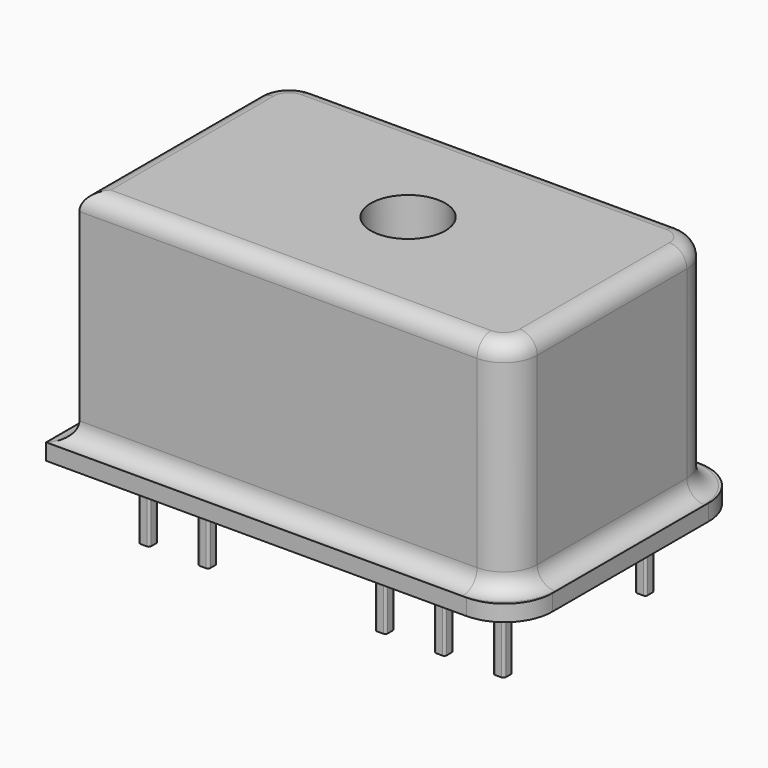
from build123d import *

# Parameters (mm, degrees)
PAD002_DEPTH = 3.3
PAD_DEPTH    = 0.7
PAD001_DEPTH = 9.42
FILLET_R     = 0.75
SKETCH002_R  = 1.6
POCKET_DEPTH = 2.5


with BuildPart() as body001:
    # Sketch003 (on Face1 of ReferencePocket) → Pad002 (new body)
    with BuildSketch(Plane(origin=(0, 0, 0), x_dir=(1, 0, 0), z_dir=(0, 0, -1))):
        with BuildLine():
            Line((-7.755, 3.575), (-7.485, 3.575))
            ThreePointArc((-7.485, 3.575), (-7.414289, 3.604289), (-7.385, 3.675))
            Line((-7.385, 3.675), (-7.385, 3.945))
            ThreePointArc((-7.385, 3.945), (-7.414289, 4.015711), (-7.485, 4.045))
            Line((-7.485, 4.045), (-7.755, 4.045))
            ThreePointArc((-7.755, 4.045), (-7.825711, 4.015711), (-7.855, 3.945))
            Line((-7.855, 3.945), (-7.855, 3.675))
            ThreePointArc((-7.855, 3.675), (-7.825711, 3.604289), (-7.755, 3.575))
        make_face()
    extrude(amount=PAD002_DEPTH)


with BuildPart() as fusion:
    # Clone base: copy of Body001
    add(body001.part)


with BuildPart() as fusion_1:
    # Clone placement: moved
    add(fusion.part.moved(Location((0, 7.62, 0))))

    # Fusion: union Body001
    add(body001.part)


with BuildPart() as fusion001:
    # Clone001 base: copy of Fusion
    add(fusion_1.part)


with BuildPart() as fusion001_1:
    # Clone001 placement: moved
    add(fusion001.part.moved(Location((2.54, 0, 0))))


with BuildPart() as fusion002:
    # Clone002 base: copy of Fusion
    add(fusion_1.part)


with BuildPart() as fusion002_1:
    # Clone002 placement: moved
    add(fusion002.part.moved(Location((10.16, 0, 0))))


with BuildPart() as fusion003:
    # Clone003 base: copy of Fusion
    add(fusion_1.part)


with BuildPart() as fusion003_1:
    # Clone003 placement: moved
    add(fusion003.part.moved(Location((12.7, 0, 0))))


with BuildPart() as fusion004:
    # Clone004 base: copy of Fusion
    add(fusion_1.part)


with BuildPart() as fusion004_1:
    # Clone004 placement: moved
    add(fusion004.part.moved(Location((15.24, 0, 0))))


with BuildPart() as fusion005:
    # Fusion001 base: copy of Fusion
    add(fusion_1.part)

    # Fusion001: union Fusion001, Fusion002, Fusion003, Fusion004
    add(fusion001_1.part)
    add(fusion002_1.part)
    add(fusion003_1.part)
    add(fusion004_1.part)


with BuildPart() as fusion006:
    # Sketch → Pad (new body)
    with BuildSketch(Plane.XY):
        with BuildLine():
            Line((-10.06, -6.25), (8.006793, -6.25))
            ThreePointArc((8.006793, -6.25), (9.45863, -5.64863), (10.06, -4.196793))
            Line((10.06, -4.196793), (10.06, 4.196793))
            ThreePointArc((10.06, 4.196793), (9.45863, 5.64863), (8.006793, 6.25))
            Line((8.006793, 6.25), (-8.006793, 6.25))
            ThreePointArc((-8.006793, 6.25), (-9.45863, 5.64863), (-10.06, 4.196793))
            Line((-10.06, 4.196793), (-10.06, -6.25))
        make_face()
    extrude(amount=PAD_DEPTH)

    # Sketch001 (on Face9 of Pad) → Pad001 (join)
    with BuildSketch(Plane.XY.offset(0.7)):
        with BuildLine():
            Line((-9.265, -5.455), (7.830229, -5.455))
            ThreePointArc((7.830229, -5.455), (8.844765, -5.034765), (9.265, -4.020229))
            Line((9.265, -4.020229), (9.265, 4.020228))
            ThreePointArc((9.265, 4.020228), (8.844765, 5.034765), (7.830229, 5.455))
            Line((7.830229, 5.455), (-7.830229, 5.455))
            ThreePointArc((-7.830229, 5.455), (-8.844765, 5.034765), (-9.265, 4.020228))
            Line((-9.265, 4.020228), (-9.265, -5.455))
        make_face()
    extrude(amount=PAD001_DEPTH)

    # Fillet
    fillet_edges = [fusion006.edges().sort_by_distance(p)[0] for p in [
        (-0.717386, -5.455, 0.7),
        (8.844765, -5.034765, 0.7),
        (9.265, 0, 0.7),
        (8.844765, 5.034765, 0.7),
        (0, 5.455, 0.7),
        (-8.844765, 5.034765, 0.7),
        (-9.265, -0.717386, 0.7),
        (-9.265, -0.717386, 10.12),
        (-8.844765, 5.034765, 10.12),
        (0, 5.455, 10.12),
        (8.844765, 5.034765, 10.12),
        (9.265, 0, 10.12),
        (8.844765, -5.034765, 10.12),
        (-0.717386, -5.455, 10.12),
    ]]
    fillet(fillet_edges, radius=FILLET_R)

    # Sketch002 (on Face31 of Fillet) → Pocket (cut)
    with BuildSketch(Plane.XY.offset(10.12)):
        with Locations((0.5, 0)):
            Circle(SKETCH002_R)
    extrude(amount=-POCKET_DEPTH, mode=Mode.SUBTRACT)

    # Fusion002: union Fusion005
    add(fusion005.part)


solid = fusion006.part
